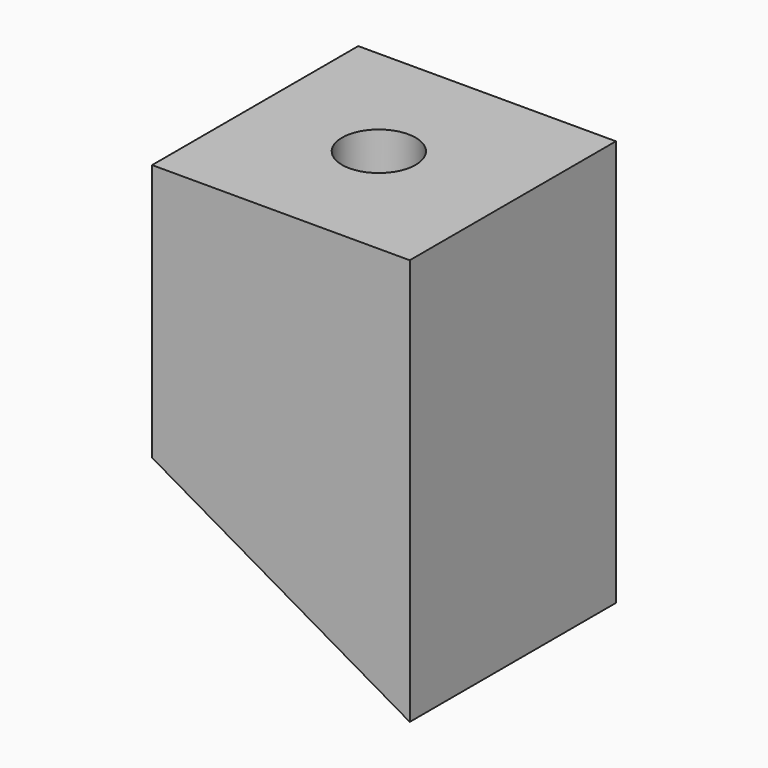
from build123d import *

# Parameters (mm, degrees)
F1_DEPTH = 25
F3_D     = 14.3
F3_DEPTH = 45
F3_TIP   = 4.296153426


with BuildPart() as f1:
    # F0 (on Front) → F1 (new body, symmetric)
    with BuildSketch(Plane.XZ):
        Polygon((26, 0), (0, 0), (-24, 0), (-24, -50), (26, -78.8675134595), align=None)
    extrude(amount=F1_DEPTH, both=True)

    # F3
    with Locations(Plane.XY):
        with Locations((0, 0)):
            Hole(F3_D / 2, depth=F3_DEPTH)
            with Locations((0, 0, -(F3_DEPTH + F3_TIP / 2))):  # 118° drill point
                Cone(0, F3_D / 2, F3_TIP, mode=Mode.SUBTRACT)


solid = f1.part
